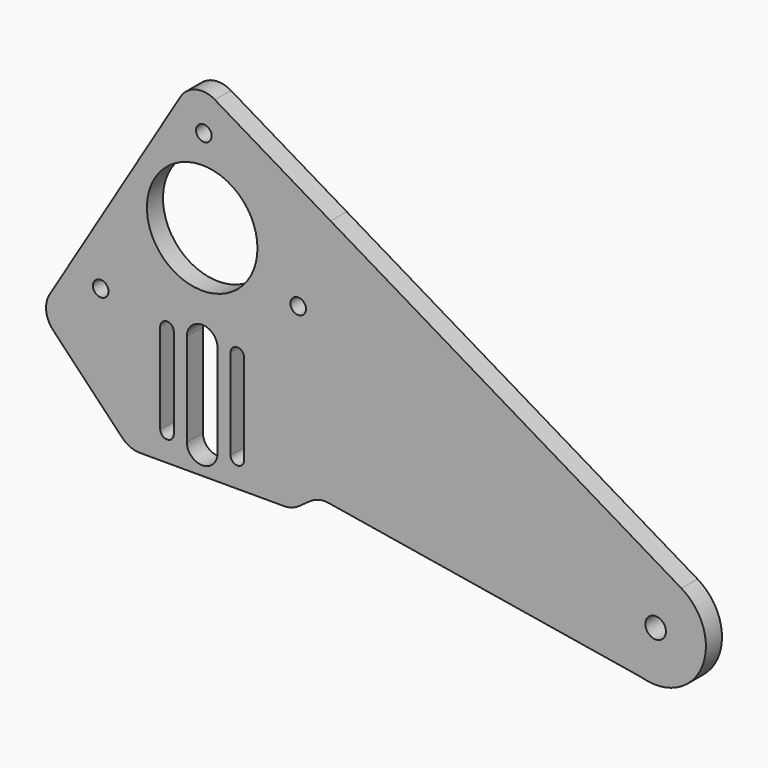
from build123d import *

# Parameters (mm, degrees)
F0_R     = 1.55
F0_R_2   = 2.05
F0_R_3   = 11
F1_DEPTH = 4


with BuildPart() as f1:
    # F0 (on Front) → F1 (new body)
    with BuildSketch(Plane.XZ):
        with BuildLine():
            Line((-12.9276869952, -14.7702103927), (49.2744245402, -25.0594563055))
            ThreePointArc((49.2744245402, -25.0594563055), (61.2632923167, -19.4743843221), (57.2253318853, -6.8799071524))
            Line((57.2253318853, -6.8799071524), (-12.5790872929, 34.7723583687))
            Line((-12.5790872929, 34.7723583687), (-35.6180453168, 48.5196942571))
            ThreePointArc((-35.6180453168, 48.5196942571), (-39.3883061053, 49.0778177624), (-42.4565310048, 46.8167639757))
            Line((-42.4565310048, 46.8167639757), (-44.283169795, 43.8016410413))
            Line((-44.283169795, 43.8016410413), (-68.4894634868, 3.7363676474))
            ThreePointArc((-68.4894634868, 3.7363676474), (-69.1796280017, 0.6014549382), (-67.8214663387, -2.3070501159))
            Line((-67.8214663387, -2.3070501159), (-54.0816127895, -16.6578253643))
            ThreePointArc((-54.0816127895, -16.6578253643), (-52.4335683043, -17.7983223484), (-50.4700412586, -18.200000748))
            Line((-50.4700412586, -18.200000748), (-21.8383905306, -18.200000748))
            ThreePointArc((-21.8383905306, -18.200000748), (-20.3097897038, -17.960607801), (-18.9275633798, -17.265352553))
            Line((-18.9275633798, -17.265352553), (-16.6545073746, -15.6378247392))
            ThreePointArc((-16.6545073746, -15.6378247392), (-14.877378135, -14.8333994398), (-12.9276869952, -14.7702103927))
        make_face()
        with BuildLine():
            ThreePointArc((-46.4896173713, 5.2461908635), (-45.1396173713, 6.5961908635), (-43.7896173713, 5.2461908635))
            Line((-43.7896173713, 5.2461908635), (-43.7896173713, -12.7538091365))
            ThreePointArc((-43.7896173713, -12.7538091365), (-45.1396173713, -14.1038091365), (-46.4896173713, -12.7538091365))
            Line((-46.4896173713, -12.7538091365), (-46.4896173713, 5.2461908635))
        make_face(mode=Mode.SUBTRACT)
        with BuildLine():
            Line((-41.1896173713, -13.2911801338), (-41.1896173713, 5.2461908635))
            ThreePointArc((-41.1896173713, 5.2461908635), (-38.1396173713, 8.2961908635), (-35.0896173713, 5.2461908635))
            Line((-35.0896173713, 5.2461908635), (-35.0896173713, -13.2911801338))
            ThreePointArc((-35.0896173713, -13.2911801338), (-38.1396173713, -16.3411801338), (-41.1896173713, -13.2911801338))
        make_face(mode=Mode.SUBTRACT)
        with Locations((-58.3313559954, 8.044780269)):
            Circle(F0_R, mode=Mode.SUBTRACT)
        with BuildLine():
            Line((-32.4896173713, -12.7538091365), (-32.4896173713, 5.2461908635))
            ThreePointArc((-32.4896173713, 5.2461908635), (-31.1396173713, 6.5961908635), (-29.7896173713, 5.2461908635))
            Line((-29.7896173713, 5.2461908635), (-29.7896173713, -12.7538091365))
            ThreePointArc((-29.7896173713, -12.7538091365), (-31.1396173713, -14.1038091365), (-32.4896173713, -12.7538091365))
        make_face(mode=Mode.SUBTRACT)
        with Locations((52.1012294587, -15.4673150455)):
            Circle(F0_R_2, mode=Mode.SUBTRACT)
        with Locations((-38.1396173713, 25.2461908635)):
            Circle(F0_R_3, mode=Mode.SUBTRACT)
        with Locations((-19.0286114888, 17.7422984931)):
            Circle(F0_R, mode=Mode.SUBTRACT)
        with Locations((-37.8051390947, 41.9450122359)):
            Circle(F0_R, mode=Mode.SUBTRACT)
    extrude(amount=F1_DEPTH)


solid = f1.part
